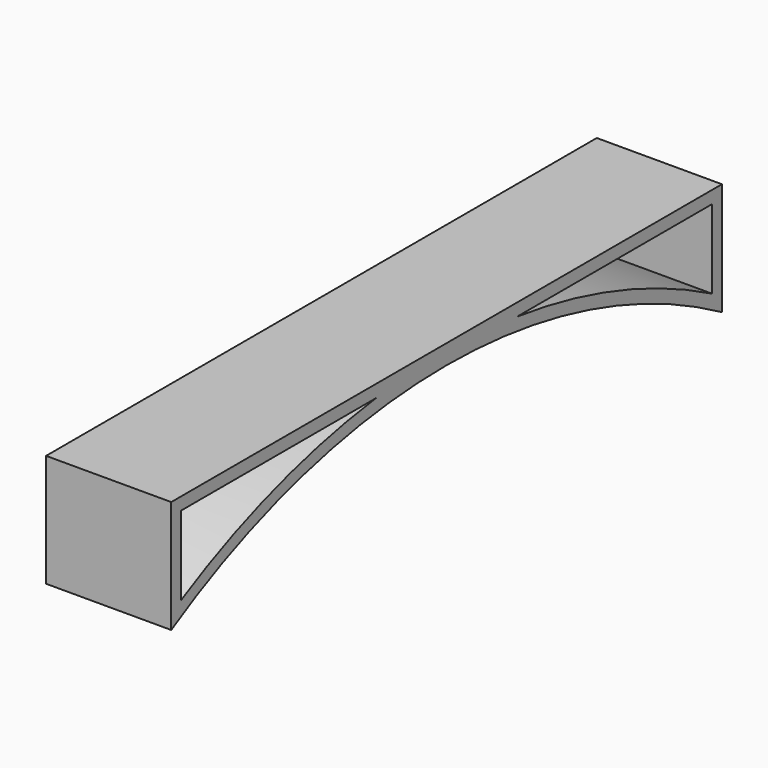
from build123d import *

# Parameters (mm, degrees)
F0_W     = 20
F0_H     = 110
F1_DEPTH = 9
F3_DEPTH = 20
F4_T     = -2


with BuildPart() as f1:
    # F0 (on Top) → F1 (new body, symmetric)
    with BuildSketch(Plane.XY):
        with Locations((0, 5)):
            Rectangle(F0_W, F0_H)
    extrude(amount=F1_DEPTH, both=True)

    # F2 (on face) → F3 (cut)
    with BuildSketch(Plane.YZ.offset(10)):
        with BuildLine():
            ThreePointArc((-50, -9), (-49.2494239601, -197.6473192465), (114, -103.1063228481))
            ThreePointArc((114, -103.1063228481), (99.5409963984, -48.8568988881), (60, -9))
            Line((60, -9), (-50, -9))
        make_face()
        with BuildLine():
            Line((-50, -9), (60, -9))
            ThreePointArc((60, -9), (5, 5.8936771519), (-50, -9))
        make_face()
    extrude(amount=-F3_DEPTH, mode=Mode.SUBTRACT)

    # F4
    f4_openings = [f1.faces().sort_by_distance(p)[0] for p in [
        (10, -48.88537, 0),
    ]]
    offset(amount=F4_T, openings=f4_openings)


solid = f1.part
